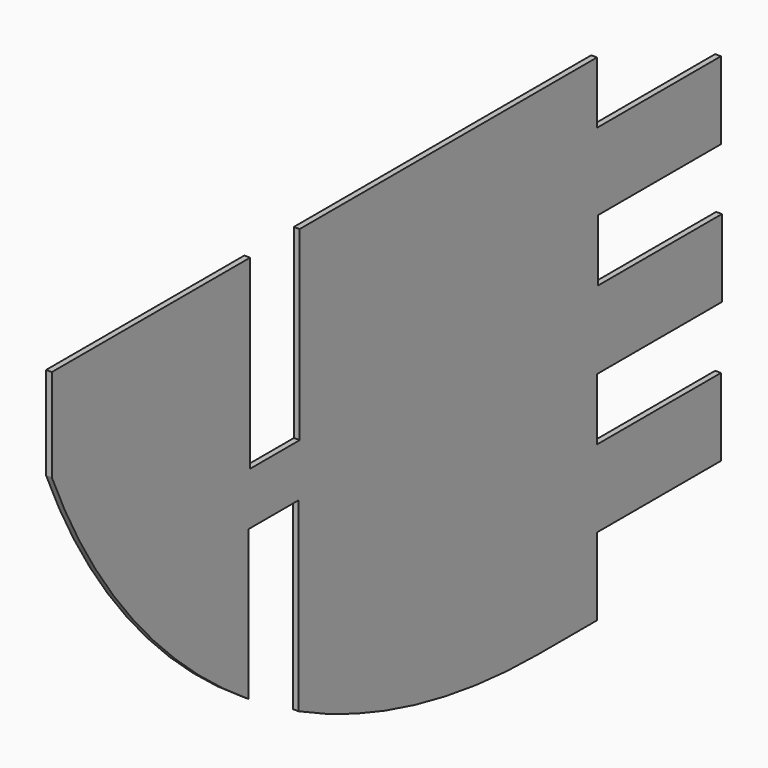
from build123d import *

# Parameters (mm, degrees)
F1_DEPTH = 4.7625
F2_ANGLE = 90


with BuildPart() as f1:
    # F0 (on Front) → F1 (new body)
    with BuildSketch(Plane.XZ):
        with BuildLine():
            Line((0, -342.9), (0, -406.4))
            Line((0, -406.4), (60.96, -406.4))
            ThreePointArc((60.96, -406.4), (186.86988, -391.527075), (305.849092, -347.726975))
            Line((305.849092, -347.726975), (305.849092, -195.326975))
            Line((305.849092, -195.326975), (357.413322, -195.326975))
            Line((357.413322, -195.326975), (357.413322, -317.825919))
            ThreePointArc((357.413322, -317.825919), (476.075937, -211.989718), (558.8, -76.2))
            Line((558.8, -76.2), (558.8, 0))
            Line((558.8, 0), (355.6, 0))
            Line((355.6, 0), (355.6, -152.4))
            Line((355.6, -152.4), (304.8, -152.4))
            Line((304.8, -152.4), (304.8, 0))
            Line((304.8, 0), (0, 0))
            Line((0, 0), (0, -50.8))
            Line((0, -50.8), (-127, -50.8))
            Line((-127, -50.8), (-127, -114.3))
            Line((-127, -114.3), (-1.006181, -114.3))
            Line((-1.006181, -114.3), (-1.006181, -165.1))
            Line((-1.006181, -165.1), (-128.006181, -165.1))
            Line((-128.006181, -165.1), (-128.006181, -228.6))
            Line((-128.006181, -228.6), (0, -228.6))
            Line((0, -228.6), (0, -279.4))
            Line((0, -279.4), (-127, -279.4))
            Line((-127, -279.4), (-127, -342.9))
            Line((-127, -342.9), (0, -342.9))
        make_face()
    extrude(amount=F1_DEPTH)


with BuildPart() as f1_1:
    # F2: moved
    add(f1.part.rotate(Axis((-128.006181, -4.7625, -196.85), (0, 0, -1)), F2_ANGLE))


solid = f1_1.part
